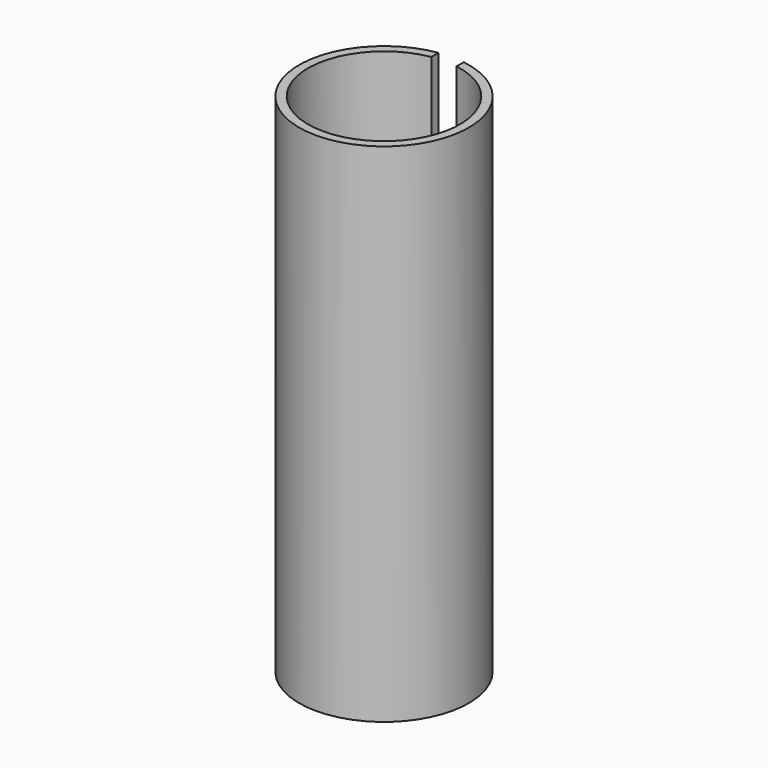
from build123d import *

# Parameters (mm, degrees)
F0_R          = 6.7
F0_R_2        = 6
F1_DEPTH      = 20
F2_W          = 2
F2_H          = 6.7
F3_DEPTH      = 20.001
F3_DEPTH_BACK = 20.001


with BuildPart() as f1:
    # F0 (on Top) → F1 (new body, symmetric)
    with BuildSketch(Plane.XY):
        Circle(F0_R)
        Circle(F0_R_2, mode=Mode.SUBTRACT)
    extrude(amount=F1_DEPTH, both=True)

    # F2 (on Top) → F3 (cut, two sides)
    with BuildSketch(Plane.XY) as f3_sk:
        with Locations((0, 3.35)):
            Rectangle(F2_W, F2_H)
    extrude(amount=-F3_DEPTH, mode=Mode.SUBTRACT)
    extrude(f3_sk.sketch, amount=F3_DEPTH_BACK, mode=Mode.SUBTRACT)


solid = f1.part
